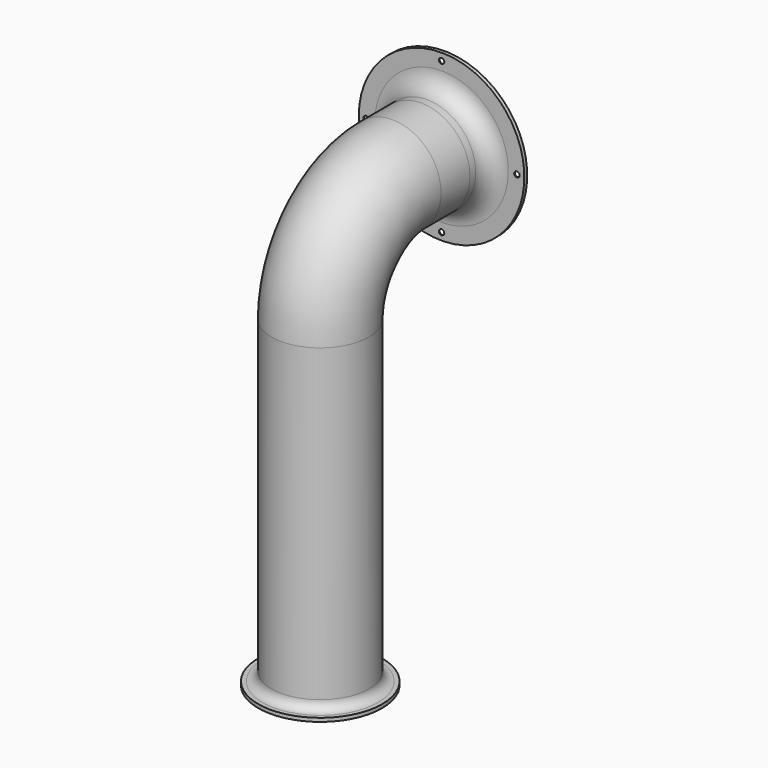
from build123d import *

# Parameters (mm, degrees)
F2_R           = 27
F2_R_2         = 25
F8_D           = 3
F8_DEPTH       = 5
F8_CSINK_D     = 6
F8_CSINK_ANGLE = 90
F8_TIP         = 0.9012909285


with BuildPart() as f3:
    # F3: sweep along a path in F0
    with BuildLine(Plane.YZ) as f3_path:
        Line((113.417416513, 188.1605413556), (93.417416513, 188.1605413556))
        ThreePointArc((93.417416513, 188.1605413556), (58.0620774536, 173.5158804149), (43.417416513, 138.1605413556))
        Line((43.417416513, 138.1605413556), (43.417416513, -31.8394586444))
    # F2 (on line) → F3 (sweep)
    with BuildSketch(Plane.XZ.offset(-113.417416513)):
        with Locations((0, 188.1605413556)):
            Circle(F2_R)
        with Locations((0, 188.1605413556)):
            Circle(F2_R_2, mode=Mode.SUBTRACT)
    sweep(path=f3_path.line)

    # F5 (on mid) → F6 (revolve)
    with BuildSketch(Plane.XY.offset(188.1605413556)):
        with BuildLine():
            Line((-27, 117.4966525264), (-27, 113.417416513))
            Line((-27, 113.417416513), (-25, 113.417416513))
            Line((-25, 113.417416513), (-25, 117.4966525264))
            ThreePointArc((-25, 117.4966525264), (-28.5147186258, 125.9819339006), (-37, 129.4966525264))
            Line((-37, 129.4966525264), (-45.89330405, 129.4966525264))
            Line((-45.89330405, 129.4966525264), (-45.89330405, 127.4966525264))
            Line((-45.89330405, 127.4966525264), (-38.3918248117, 127.4966525264))
            Line((-38.3918248117, 127.4966525264), (-37, 127.4966525264))
            ThreePointArc((-37, 127.4966525264), (-29.9289321881, 124.5677203382), (-27, 117.4966525264))
        make_face()
    revolve(axis=Axis((0, 116.9485785067, 188.1605413556), (0, -1, 0)))

    # F8
    with Locations(Plane(origin=(0, 129.4966525264, 0), x_dir=(-1, 0, 0), z_dir=(0, 1, 0))):
        with Locations((0, 229.936236347), (-41.7756949914, 188.1605413556), (0, 146.3848463642), (41.7756393291, 188.0923456015)):
            CounterSinkHole(F8_D / 2, F8_CSINK_D / 2, depth=F8_DEPTH, counter_sink_angle=F8_CSINK_ANGLE)
            with Locations((0, 0, -(F8_DEPTH + F8_TIP / 2))):  # 118° drill point
                Cone(0, F8_D / 2, F8_TIP, mode=Mode.SUBTRACT)

    # F11 (on mid) → F12 (revolve)
    with BuildSketch(Plane(origin=(0, 43.417416513, 0), x_dir=(-1, 0, 0), z_dir=(0, 1, 0))):
        with BuildLine():
            Line((-25, -31.8394586444), (-27, -31.8394586444))
            Line((-27, -31.8394586444), (-27, -33.585781455))
            ThreePointArc((-27, -33.585781455), (-28.4644660941, -37.121315361), (-32, -38.585781455))
            Line((-32, -38.585781455), (-34.338119328, -38.585781455))
            Line((-34.338119328, -38.585781455), (-34.338119328, -40.585781455))
            Line((-34.338119328, -40.585781455), (-32, -40.585781455))
            ThreePointArc((-32, -40.585781455), (-27.0502525317, -38.5355289233), (-25, -33.585781455))
            Line((-25, -33.585781455), (-25, -31.8394586444))
        make_face()
    revolve(axis=Axis((0, 43.417416513, -15.3753508348), (0, 0, 1)))


solid = f3.part
